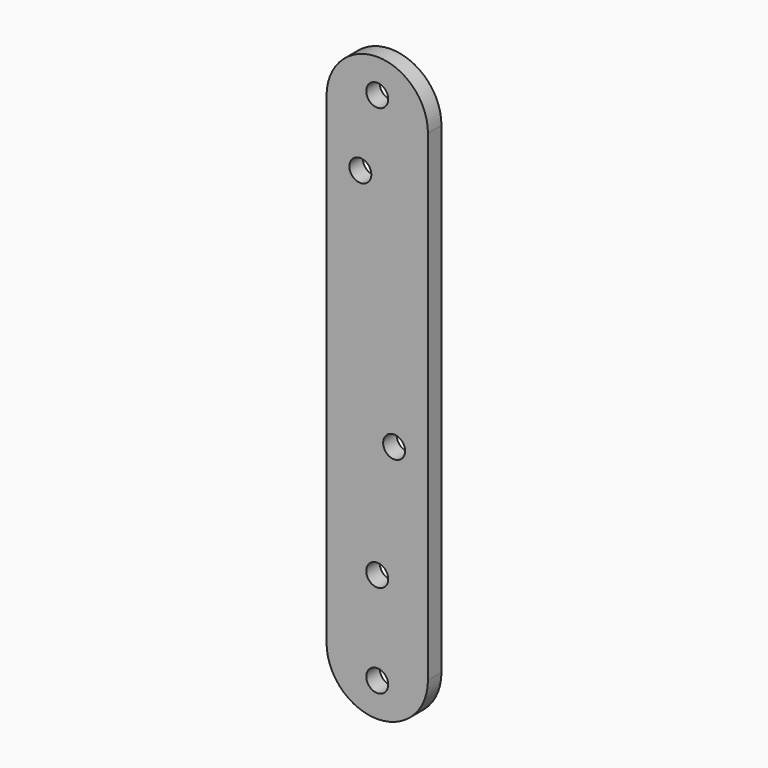
from build123d import *

# Parameters (mm, degrees)
F1_DEPTH = 10
F2_D     = 13
F3_D     = 13
F4_D     = 13


with BuildPart() as f1:
    # F0 (on Front) → F1 (new body)
    with BuildSketch(Plane.XZ):
        with BuildLine():
            ThreePointArc((14.88112472, 269.9518393504), (-15.11887528, 299.9518393504), (-45.11887528, 269.9518393504))
            Line((-45.11887528, 269.9518393504), (-45.11887528, -15.0481606496))
            ThreePointArc((-45.11887528, -15.0481606496), (-15.11887528, -45.0481606496), (14.88112472, -15.0481606496))
            Line((14.88112472, -15.0481606496), (14.88112472, 269.9518393504))
        make_face()
    extrude(amount=F1_DEPTH)

    # F2 (through all)
    with Locations(Plane(origin=(0, 0, 0), x_dir=(1, 0, 0), z_dir=(0, 1, 0))):
        with Locations((-15.11887528, -29.9518393504), (-15.11887528, 25.0481606496)):
            Hole(F2_D / 2)

    # F3 (through all)
    with Locations(Plane(origin=(0, 0, 0), x_dir=(1, 0, 0), z_dir=(0, 1, 0))):
        with Locations((-15.11887528, -279.9518393504)):
            Hole(F3_D / 2)

    # F4 (through all)
    with Locations(Plane(origin=(0, 0, 0), x_dir=(1, 0, 0), z_dir=(0, 1, 0))):
        with Locations((-25.11887528, -237.4518393504), (-5.11887528, -99.9518393504)):
            Hole(F4_D / 2)


solid = f1.part
